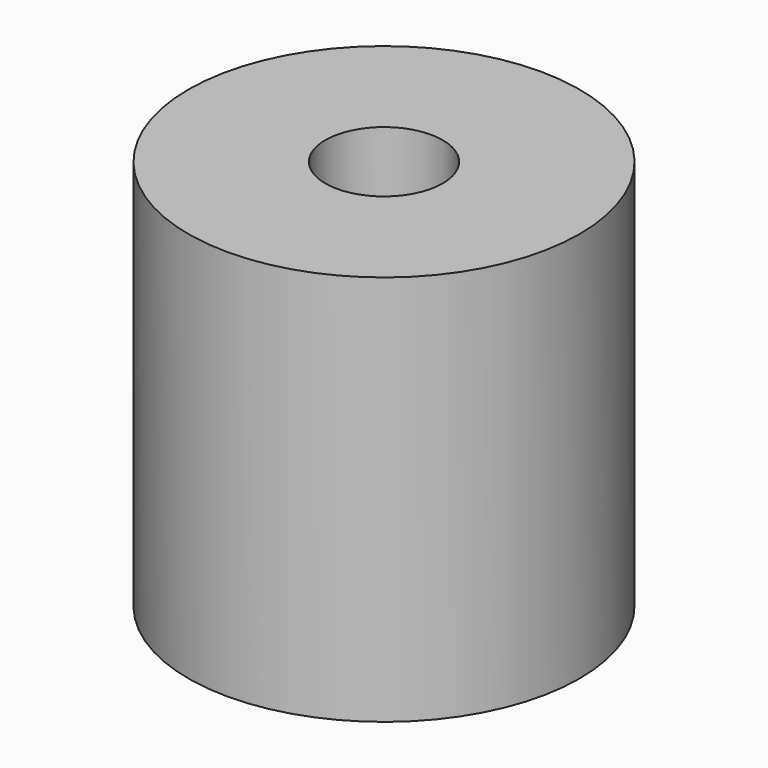
from build123d import *

# Parameters (mm, degrees)
SKETCH_R     = 10
PAD_DEPTH    = 20
SKETCH001_R  = 3
POCKET_DEPTH = 20.001


with BuildPart() as part:
    # Sketch → Pad (new body)
    with BuildSketch(Plane.XY):
        Circle(SKETCH_R)
    extrude(amount=PAD_DEPTH)

    # Sketch001 (on Face3 of Pad) → Pocket (cut, through all)
    with BuildSketch(Plane.XY.offset(20)):
        Circle(SKETCH001_R)
    extrude(amount=-POCKET_DEPTH, mode=Mode.SUBTRACT)


solid = part.part
